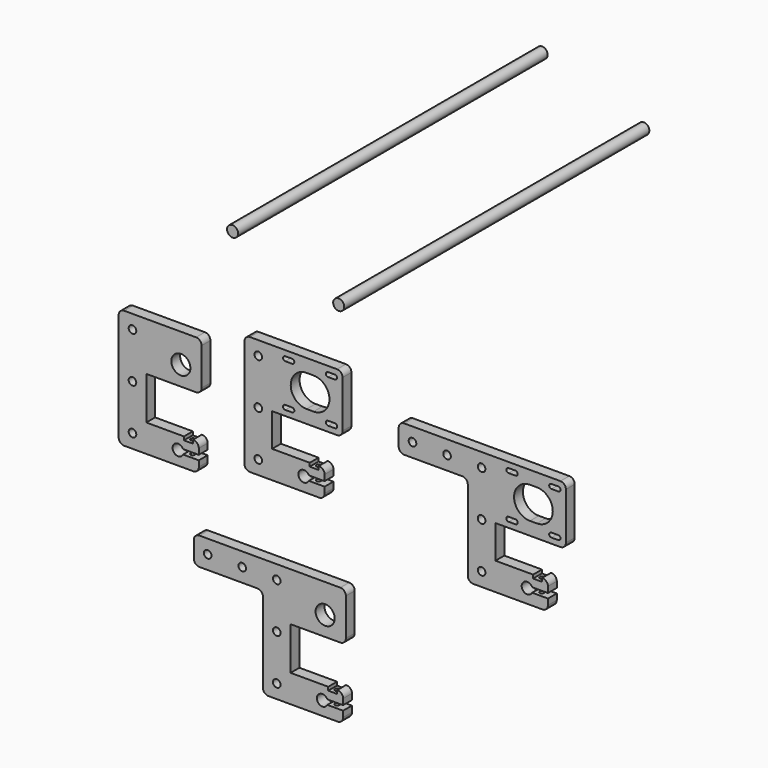
from build123d import *

# Parameters (mm, degrees)
F0_R      = 2.75
F1_DEPTH  = 8
F2_R      = 1.6
F3_DEPTH  = 20
F4_W      = 6.5
F4_H      = 8
F5_DEPTH  = 2.5
F6_R      = 2.75
F6_R_2    = 6.9
F7_DEPTH  = 8
F8_R      = 1.6
F9_DEPTH  = 20
F10_W     = 6.5
F10_H     = 8
F10_R     = 1.6
F11_DEPTH = 2.5
F12_R     = 2.75
F13_DEPTH = 8
F14_R     = 1.6
F15_DEPTH = 20
F16_W     = 6.5
F16_H     = 8
F16_R     = 1.6
F17_DEPTH = 2.5
F18_R     = 2.75
F18_R_2   = 6.9
F19_DEPTH = 8
F20_R     = 1.6
F21_DEPTH = 20
F22_W     = 6.5
F22_H     = 8
F22_R     = 1.6
F23_DEPTH = 2.5
F24_R     = 4
F25_DEPTH = 276
F26_R     = 4
F27_DEPTH = 280


with BuildPart() as f1:
    # F0 (on Front) → F1 (new body)
    with BuildSketch(Plane.XZ):
        with BuildLine():
            ThreePointArc((-93.1596488493, 17), (-94.3312217246, 19.8284271247), (-97.1596488493, 21))
            Line((-97.1596488493, 21), (-160.1596488493, 21))
            ThreePointArc((-160.1596488493, 21), (-162.9880759741, 19.8284271247), (-164.1596488493, 17))
            Line((-164.1596488493, 17), (-164.1596488493, -61))
            ThreePointArc((-164.1596488493, -61), (-162.9880759741, -63.8284271247), (-160.1596488493, -65))
            Line((-160.1596488493, -65), (-110.1596488493, -65))
            ThreePointArc((-110.1596488493, -65), (-107.3312217246, -63.8284271247), (-106.1596488493, -61))
            Line((-106.1596488493, -61), (-106.1596488493, -56.75))
            Line((-106.1596488493, -56.75), (-117.5627752069, -56.75))
            ThreePointArc((-117.5627752069, -56.75), (-125.1596488493, -55), (-117.5627752069, -53.25))
            Line((-117.5627752069, -53.25), (-106.1596488493, -53.25))
            Line((-106.1596488493, -53.25), (-106.1596488493, -49))
            ThreePointArc((-106.1596488493, -49), (-107.3312217246, -46.1715728753), (-110.1596488493, -45))
            Line((-110.1596488493, -45), (-144.1596488493, -45))
            Line((-144.1596488493, -45), (-144.1596488493, -21))
            Line((-144.1596488493, -21), (-97.1596488493, -21))
            ThreePointArc((-97.1596488493, -21), (-94.3312217246, -19.8284271247), (-93.1596488493, -17))
            Line((-93.1596488493, -17), (-93.1596488493, 17))
        make_face()
        with Locations((-154.1596488493, -55)):
            Circle(F0_R, mode=Mode.SUBTRACT)
        with Locations((-154.1596488493, -22)):
            Circle(F0_R, mode=Mode.SUBTRACT)
        with BuildLine():
            Line((-134.6596488493, -13.9), (-129.6596488493, -13.9))
            ThreePointArc((-129.6596488493, -13.9), (-128.0596488493, -15.5), (-129.6596488493, -17.1))
            Line((-129.6596488493, -17.1), (-134.6596488493, -17.1))
            ThreePointArc((-134.6596488493, -17.1), (-136.2596488493, -15.5), (-134.6596488493, -13.9))
        make_face(mode=Mode.SUBTRACT)
        with Locations((-154.1596488493, 11)):
            Circle(F0_R, mode=Mode.SUBTRACT)
        with BuildLine():
            ThreePointArc((-129.6596488493, 17.1), (-128.0596488493, 15.5), (-129.6596488493, 13.9))
            Line((-129.6596488493, 13.9), (-134.6596488493, 13.9))
            ThreePointArc((-134.6596488493, 13.9), (-136.2596488493, 15.5), (-134.6596488493, 17.1))
            Line((-134.6596488493, 17.1), (-129.6596488493, 17.1))
        make_face(mode=Mode.SUBTRACT)
        with BuildLine():
            ThreePointArc((-103.6596488493, -17.1), (-105.2596488493, -15.5), (-103.6596488493, -13.9))
            Line((-103.6596488493, -13.9), (-98.6596488493, -13.9))
            ThreePointArc((-98.6596488493, -13.9), (-97.0596488493, -15.5), (-98.6596488493, -17.1))
            Line((-98.6596488493, -17.1), (-103.6596488493, -17.1))
        make_face(mode=Mode.SUBTRACT)
        with BuildLine():
            Line((-114.1596488493, -11.5), (-119.1596488493, -11.5))
            ThreePointArc((-119.1596488493, -11.5), (-130.6596488493, 0), (-119.1596488493, 11.5))
            Line((-119.1596488493, 11.5), (-114.1596488493, 11.5))
            ThreePointArc((-114.1596488493, 11.5), (-102.6596488493, 0), (-114.1596488493, -11.5))
        make_face(mode=Mode.SUBTRACT)
        with BuildLine():
            Line((-98.6596488493, 13.9), (-103.6596488493, 13.9))
            ThreePointArc((-103.6596488493, 13.9), (-105.2596488493, 15.5), (-103.6596488493, 17.1))
            Line((-103.6596488493, 17.1), (-98.6596488493, 17.1))
            ThreePointArc((-98.6596488493, 17.1), (-97.0596488493, 15.5), (-98.6596488493, 13.9))
        make_face(mode=Mode.SUBTRACT)
        with BuildLine():
            ThreePointArc((-93.1596488493, 17), (-94.3312217246, 19.8284271247), (-97.1596488493, 21))
            Line((-97.1596488493, 21), (-160.1596488493, 21))
            ThreePointArc((-160.1596488493, 21), (-162.9880759741, 19.8284271247), (-164.1596488493, 17))
            Line((-164.1596488493, 17), (-164.1596488493, -61))
            ThreePointArc((-164.1596488493, -61), (-162.9880759741, -63.8284271247), (-160.1596488493, -65))
            Line((-160.1596488493, -65), (-110.1596488493, -65))
            ThreePointArc((-110.1596488493, -65), (-107.3312217246, -63.8284271247), (-106.1596488493, -61))
            Line((-106.1596488493, -61), (-106.1596488493, -56.75))
            Line((-106.1596488493, -56.75), (-117.5627752069, -56.75))
            ThreePointArc((-117.5627752069, -56.75), (-125.1596488493, -55), (-117.5627752069, -53.25))
            Line((-117.5627752069, -53.25), (-106.1596488493, -53.25))
            Line((-106.1596488493, -53.25), (-106.1596488493, -49))
            ThreePointArc((-106.1596488493, -49), (-107.3312217246, -46.1715728753), (-110.1596488493, -45))
            Line((-110.1596488493, -45), (-144.1596488493, -45))
            Line((-144.1596488493, -45), (-144.1596488493, -21))
            Line((-144.1596488493, -21), (-97.1596488493, -21))
            ThreePointArc((-97.1596488493, -21), (-94.3312217246, -19.8284271247), (-93.1596488493, -17))
            Line((-93.1596488493, -17), (-93.1596488493, 17))
        make_face()
        with Locations((-154.1596488493, -55)):
            Circle(F0_R, mode=Mode.SUBTRACT)
        with Locations((-154.1596488493, -22)):
            Circle(F0_R, mode=Mode.SUBTRACT)
        with BuildLine():
            Line((-134.6596488493, -13.9), (-129.6596488493, -13.9))
            ThreePointArc((-129.6596488493, -13.9), (-128.0596488493, -15.5), (-129.6596488493, -17.1))
            Line((-129.6596488493, -17.1), (-134.6596488493, -17.1))
            ThreePointArc((-134.6596488493, -17.1), (-136.2596488493, -15.5), (-134.6596488493, -13.9))
        make_face(mode=Mode.SUBTRACT)
        with Locations((-154.1596488493, 11)):
            Circle(F0_R, mode=Mode.SUBTRACT)
        with BuildLine():
            ThreePointArc((-129.6596488493, 17.1), (-128.0596488493, 15.5), (-129.6596488493, 13.9))
            Line((-129.6596488493, 13.9), (-134.6596488493, 13.9))
            ThreePointArc((-134.6596488493, 13.9), (-136.2596488493, 15.5), (-134.6596488493, 17.1))
            Line((-134.6596488493, 17.1), (-129.6596488493, 17.1))
        make_face(mode=Mode.SUBTRACT)
        with BuildLine():
            ThreePointArc((-103.6596488493, -17.1), (-105.2596488493, -15.5), (-103.6596488493, -13.9))
            Line((-103.6596488493, -13.9), (-98.6596488493, -13.9))
            ThreePointArc((-98.6596488493, -13.9), (-97.0596488493, -15.5), (-98.6596488493, -17.1))
            Line((-98.6596488493, -17.1), (-103.6596488493, -17.1))
        make_face(mode=Mode.SUBTRACT)
        with BuildLine():
            Line((-114.1596488493, -11.5), (-119.1596488493, -11.5))
            ThreePointArc((-119.1596488493, -11.5), (-130.6596488493, 0), (-119.1596488493, 11.5))
            Line((-119.1596488493, 11.5), (-114.1596488493, 11.5))
            ThreePointArc((-114.1596488493, 11.5), (-102.6596488493, 0), (-114.1596488493, -11.5))
        make_face(mode=Mode.SUBTRACT)
        with BuildLine():
            Line((-98.6596488493, 13.9), (-103.6596488493, 13.9))
            ThreePointArc((-103.6596488493, 13.9), (-105.2596488493, 15.5), (-103.6596488493, 17.1))
            Line((-103.6596488493, 17.1), (-98.6596488493, 17.1))
            ThreePointArc((-98.6596488493, 17.1), (-97.0596488493, 15.5), (-98.6596488493, 13.9))
        make_face(mode=Mode.SUBTRACT)
    extrude(amount=F1_DEPTH)

    # F2 (on face) → F3 (cut, through all)
    with BuildSketch(Plane(origin=(0, 0, -65), x_dir=(1, 0, 0), z_dir=(0, 0, -1))):
        with Locations((-113.6596488493, 4)):
            Circle(F2_R)
    extrude(amount=-F3_DEPTH, mode=Mode.SUBTRACT)

    # F4 (on face) → F5 (cut)
    with BuildSketch(Plane.XY.offset(-45)):
        with Locations((-113.6596488493, -4)):
            Rectangle(F4_W, F4_H)
    extrude(amount=-F5_DEPTH, mode=Mode.SUBTRACT)


with BuildPart() as f7:
    # F6 (on Front) → F7 (new body)
    with BuildSketch(Plane.XZ):
        with BuildLine():
            ThreePointArc((-195.1857985243, 4.1603808701), (-196.3573713996, 6.9888079949), (-199.1857985243, 8.1603808701))
            Line((-199.1857985243, 8.1603808701), (-251.1857985243, 8.1603808701))
            ThreePointArc((-251.1857985243, 8.1603808701), (-254.0142256491, 6.9888079949), (-255.1857985243, 4.1603808701))
            Line((-255.1857985243, 4.1603808701), (-255.1857985243, -73.8396191299))
            ThreePointArc((-255.1857985243, -73.8396191299), (-254.0142256491, -76.6680462546), (-251.1857985243, -77.8396191299))
            Line((-251.1857985243, -77.8396191299), (-201.1857985243, -77.8396191299))
            ThreePointArc((-201.1857985243, -77.8396191299), (-198.3573713996, -76.6680462546), (-197.1857985243, -73.8396191299))
            Line((-197.1857985243, -73.8396191299), (-197.1857985243, -69.5896191299))
            Line((-197.1857985243, -69.5896191299), (-208.5889248819, -69.5896191299))
            ThreePointArc((-208.5889248819, -69.5896191299), (-216.1857985243, -67.8396191299), (-208.5889248819, -66.0896191299))
            Line((-208.5889248819, -66.0896191299), (-197.1857985243, -66.0896191299))
            Line((-197.1857985243, -66.0896191299), (-197.1857985243, -61.8396191299))
            ThreePointArc((-197.1857985243, -61.8396191299), (-198.3573713996, -59.0111920051), (-201.1857985243, -57.8396191299))
            Line((-201.1857985243, -57.8396191299), (-235.1857985243, -57.8396191299))
            Line((-235.1857985243, -57.8396191299), (-235.1857985243, -26.8396191299))
            Line((-235.1857985243, -26.8396191299), (-199.1857985243, -26.8396191299))
            ThreePointArc((-199.1857985243, -26.8396191299), (-196.3573713996, -25.6680462546), (-195.1857985243, -22.8396191299))
            Line((-195.1857985243, -22.8396191299), (-195.1857985243, 4.1603808701))
        make_face()
        with Locations((-245.1857985243, -67.8396191299)):
            Circle(F6_R, mode=Mode.SUBTRACT)
        with Locations((-245.1857985243, -34.8396191299)):
            Circle(F6_R, mode=Mode.SUBTRACT)
        with Locations((-245.1857985243, -1.8396191299)):
            Circle(F6_R, mode=Mode.SUBTRACT)
        with Locations((-210.1857985243, -12.8396191299)):
            Circle(F6_R_2, mode=Mode.SUBTRACT)
    extrude(amount=F7_DEPTH)

    # F8 (on face) → F9 (cut, through all)
    with BuildSketch(Plane(origin=(0, 0, -77.8396191299), x_dir=(1, 0, 0), z_dir=(0, 0, -1))):
        with Locations((-204.6857985243, 4)):
            Circle(F8_R)
    extrude(amount=-F9_DEPTH, mode=Mode.SUBTRACT)

    # F10 (on face) → F11 (cut)
    with BuildSketch(Plane.XY.offset(-57.8396191299)):
        with Locations((-204.6857985245, -4)):
            Rectangle(F10_W, F10_H)
        with Locations((-204.6857985245, -4)):
            Circle(F10_R, mode=Mode.SUBTRACT)
    extrude(amount=-F11_DEPTH, mode=Mode.SUBTRACT)


with BuildPart() as f13:
    # F12 (on Front) → F13 (new body)
    with BuildSketch(Plane.XZ):
        with BuildLine():
            ThreePointArc((68.462076041, -1.7079722331), (67.2905031658, 1.1204548917), (64.462076041, 2.2920277669))
            Line((64.462076041, 2.2920277669), (-48.537923959, 2.2920277669))
            ThreePointArc((-48.537923959, 2.2920277669), (-51.3663510837, 1.1204548917), (-52.537923959, -1.7079722331))
            Line((-52.537923959, -1.7079722331), (-52.537923959, -13.7079722331))
            ThreePointArc((-52.537923959, -13.7079722331), (-51.3663510837, -16.5363993578), (-48.537923959, -17.7079722331))
            Line((-48.537923959, -17.7079722331), (-6.537923959, -17.7079722331))
            ThreePointArc((-6.537923959, -17.7079722331), (-3.7094968342, -18.8795451083), (-2.537923959, -21.7079722331))
            Line((-2.537923959, -21.7079722331), (-2.537923959, -79.7079722331))
            ThreePointArc((-2.537923959, -79.7079722331), (-1.3663510837, -82.5363993578), (1.462076041, -83.7079722331))
            Line((1.462076041, -83.7079722331), (51.462076041, -83.7079722331))
            ThreePointArc((51.462076041, -83.7079722331), (54.2905031658, -82.5363993578), (55.462076041, -79.7079722331))
            Line((55.462076041, -79.7079722331), (55.462076041, -75.4579722331))
            Line((55.462076041, -75.4579722331), (44.0589496835, -75.4579722331))
            ThreePointArc((44.0589496835, -75.4579722331), (36.462076041, -73.7079722331), (44.0589496835, -71.9579722331))
            Line((44.0589496835, -71.9579722331), (55.462076041, -71.9579722331))
            Line((55.462076041, -71.9579722331), (55.462076041, -67.7079722331))
            ThreePointArc((55.462076041, -67.7079722331), (54.2905031658, -64.8795451083), (51.462076041, -63.7079722331))
            Line((51.462076041, -63.7079722331), (17.462076041, -63.7079722331))
            Line((17.462076041, -63.7079722331), (17.462076041, -39.7079722331))
            Line((17.462076041, -39.7079722331), (64.462076041, -39.7079722331))
            ThreePointArc((64.462076041, -39.7079722331), (67.2905031658, -38.5363993578), (68.462076041, -35.7079722331))
            Line((68.462076041, -35.7079722331), (68.462076041, -1.7079722331))
        make_face()
        with Locations((7.462076041, -73.7079722331)):
            Circle(F12_R, mode=Mode.SUBTRACT)
        with Locations((7.462076041, -40.7079722331)):
            Circle(F12_R, mode=Mode.SUBTRACT)
        with Locations((-42.537923959, -7.7079722331)):
            Circle(F12_R, mode=Mode.SUBTRACT)
        with Locations((-17.537923959, -7.7079722331)):
            Circle(F12_R, mode=Mode.SUBTRACT)
        with Locations((7.462076041, -7.7079722331)):
            Circle(F12_R, mode=Mode.SUBTRACT)
        with BuildLine():
            ThreePointArc((31.962076041, -32.6079722331), (33.562076041, -34.2079722331), (31.962076041, -35.8079722331))
            Line((31.962076041, -35.8079722331), (26.962076041, -35.8079722331))
            ThreePointArc((26.962076041, -35.8079722331), (25.362076041, -34.2079722331), (26.962076041, -32.6079722331))
            Line((26.962076041, -32.6079722331), (31.962076041, -32.6079722331))
        make_face(mode=Mode.SUBTRACT)
        with BuildLine():
            ThreePointArc((62.962076041, -32.6079722331), (64.562076041, -34.2079722331), (62.962076041, -35.8079722331))
            Line((62.962076041, -35.8079722331), (57.962076041, -35.8079722331))
            ThreePointArc((57.962076041, -35.8079722331), (56.362076041, -34.2079722331), (57.962076041, -32.6079722331))
            Line((57.962076041, -32.6079722331), (62.962076041, -32.6079722331))
        make_face(mode=Mode.SUBTRACT)
        with BuildLine():
            Line((26.962076041, -1.6079722331), (31.962076041, -1.6079722331))
            ThreePointArc((31.962076041, -1.6079722331), (33.562076041, -3.2079722331), (31.962076041, -4.8079722331))
            Line((31.962076041, -4.8079722331), (26.962076041, -4.8079722331))
            ThreePointArc((26.962076041, -4.8079722331), (25.362076041, -3.2079722331), (26.962076041, -1.6079722331))
        make_face(mode=Mode.SUBTRACT)
        with BuildLine():
            Line((47.462076041, -30.2079722331), (42.462076041, -30.2079722331))
            ThreePointArc((42.462076041, -30.2079722331), (30.962076041, -18.7079722331), (42.462076041, -7.2079722331))
            Line((42.462076041, -7.2079722331), (47.462076041, -7.2079722331))
            ThreePointArc((47.462076041, -7.2079722331), (58.962076041, -18.7079722331), (47.462076041, -30.2079722331))
        make_face(mode=Mode.SUBTRACT)
        with BuildLine():
            Line((62.962076041, -4.8079722331), (57.962076041, -4.8079722331))
            ThreePointArc((57.962076041, -4.8079722331), (56.362076041, -3.2079722331), (57.962076041, -1.6079722331))
            Line((57.962076041, -1.6079722331), (62.962076041, -1.6079722331))
            ThreePointArc((62.962076041, -1.6079722331), (64.562076041, -3.2079722331), (62.962076041, -4.8079722331))
        make_face(mode=Mode.SUBTRACT)
    extrude(amount=F13_DEPTH)

    # F14 (on face) → F15 (cut, through all)
    with BuildSketch(Plane(origin=(0, 0, -83.7079722331), x_dir=(1, 0, 0), z_dir=(0, 0, -1))):
        with Locations((47.962076041, 4)):
            Circle(F14_R)
    extrude(amount=-F15_DEPTH, mode=Mode.SUBTRACT)

    # F16 (on face) → F17 (cut)
    with BuildSketch(Plane.XY.offset(-63.7079722331)):
        with Locations((47.962076041, -4)):
            Rectangle(F16_W, F16_H)
        with Locations((47.962076041, -4)):
            Circle(F16_R, mode=Mode.SUBTRACT)
    extrude(amount=-F17_DEPTH, mode=Mode.SUBTRACT)


with BuildPart() as f19:
    # F18 (on Front) → F19 (new body)
    with BuildSketch(Plane.XZ):
        with BuildLine():
            ThreePointArc((-150.7662330995, -199.3631052409), (-149.5946602242, -202.1915323657), (-146.7662330995, -203.3631052409))
            Line((-146.7662330995, -203.3631052409), (-96.7662330995, -203.3631052409))
            ThreePointArc((-96.7662330995, -203.3631052409), (-93.9378059747, -202.1915323657), (-92.7662330995, -199.3631052409))
            Line((-92.7662330995, -199.3631052409), (-92.7662330995, -195.1131052409))
            Line((-92.7662330995, -195.1131052409), (-104.169359457, -195.1131052409))
            ThreePointArc((-104.169359457, -195.1131052409), (-111.7662330995, -193.3631052409), (-104.169359457, -191.6131052409))
            Line((-104.169359457, -191.6131052409), (-92.7662330995, -191.6131052409))
            Line((-92.7662330995, -191.6131052409), (-92.7662330995, -187.3631052409))
            ThreePointArc((-92.7662330995, -187.3631052409), (-93.9378059747, -184.5346781162), (-96.7662330995, -183.3631052409))
            Line((-96.7662330995, -183.3631052409), (-130.7662330995, -183.3631052409))
            Line((-130.7662330995, -183.3631052409), (-130.7662330995, -152.3631052409))
            Line((-130.7662330995, -152.3631052409), (-94.7662330995, -152.3631052409))
            ThreePointArc((-94.7662330995, -152.3631052409), (-91.9378059747, -151.1915323657), (-90.7662330995, -148.3631052409))
            Line((-90.7662330995, -148.3631052409), (-90.7662330995, -121.3631052409))
            ThreePointArc((-90.7662330995, -121.3631052409), (-91.9378059747, -118.5346781162), (-94.7662330995, -117.3631052409))
            Line((-94.7662330995, -117.3631052409), (-196.7662330995, -117.3631052409))
            ThreePointArc((-196.7662330995, -117.3631052409), (-199.5946602242, -118.5346781162), (-200.7662330995, -121.3631052409))
            Line((-200.7662330995, -121.3631052409), (-200.7662330995, -133.3631052409))
            ThreePointArc((-200.7662330995, -133.3631052409), (-199.5946602242, -136.1915323657), (-196.7662330995, -137.3631052409))
            Line((-196.7662330995, -137.3631052409), (-154.7662330995, -137.3631052409))
            ThreePointArc((-154.7662330995, -137.3631052409), (-151.9378059747, -138.5346781162), (-150.7662330995, -141.3631052409))
            Line((-150.7662330995, -141.3631052409), (-150.7662330995, -199.3631052409))
        make_face()
        with Locations((-140.7662330995, -193.3631052409)):
            Circle(F18_R, mode=Mode.SUBTRACT)
        with Locations((-140.7662330995, -160.3631052409)):
            Circle(F18_R, mode=Mode.SUBTRACT)
        with Locations((-190.7662330995, -127.3631052409)):
            Circle(F18_R, mode=Mode.SUBTRACT)
        with Locations((-165.7662330995, -127.3631052409)):
            Circle(F18_R, mode=Mode.SUBTRACT)
        with Locations((-140.7662330995, -127.3631052409)):
            Circle(F18_R, mode=Mode.SUBTRACT)
        with Locations((-105.7662330995, -138.3631052409)):
            Circle(F18_R_2, mode=Mode.SUBTRACT)
    extrude(amount=F19_DEPTH)

    # F20 (on face) → F21 (cut, through all)
    with BuildSketch(Plane(origin=(0, 0, -203.3631052409), x_dir=(1, 0, 0), z_dir=(0, 0, -1))):
        with Locations((-100.2662330995, 4)):
            Circle(F20_R)
    extrude(amount=-F21_DEPTH, mode=Mode.SUBTRACT)

    # F22 (on face) → F23 (cut)
    with BuildSketch(Plane.XY.offset(-183.3631052409)):
        with Locations((-100.2662330995, -4)):
            Rectangle(F22_W, F22_H)
        with Locations((-100.2662330995, -4)):
            Circle(F22_R, mode=Mode.SUBTRACT)
    extrude(amount=-F23_DEPTH, mode=Mode.SUBTRACT)


with BuildPart() as f25:
    # F24 (on Front) → F25 (new body)
    with BuildSketch(Plane.XZ):
        with Locations((-102.3534014821, 57.1624301374)):
            Circle(F24_R)
    extrude(amount=-F25_DEPTH)


with BuildPart() as f27:
    # F26 (on Front) → F27 (new body)
    with BuildSketch(Plane.XZ):
        with Locations((-179.1601032019, 78.9131969213)):
            Circle(F26_R)
    extrude(amount=-F27_DEPTH)


solid = Compound([f1.part, f7.part, f13.part, f19.part, f25.part, f27.part])
